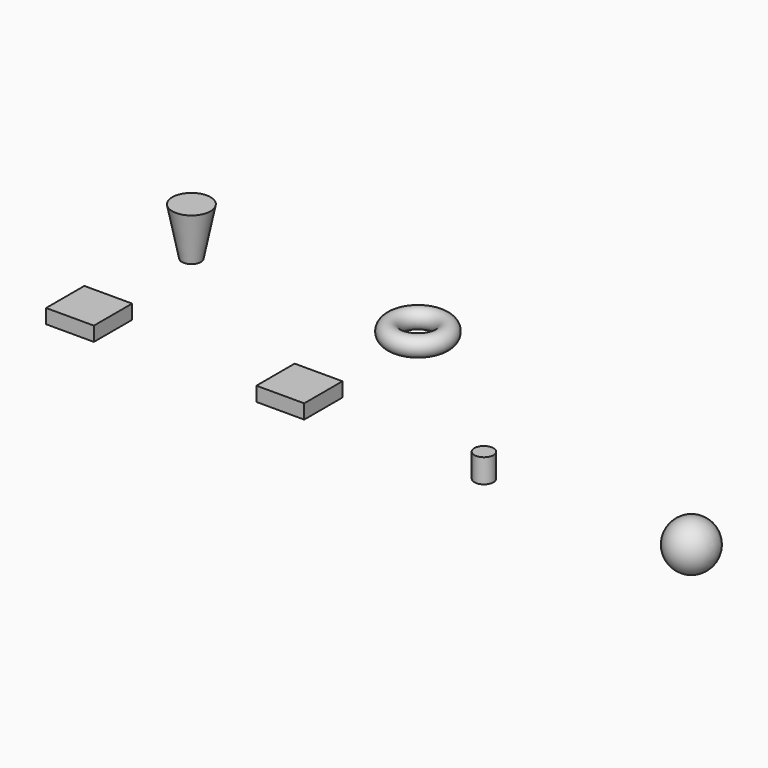
from build123d import *

# Parameters (mm, degrees)
BOX_W          = 10
BOX_H          = 10
BOX_DEPTH      = 3
BOX001_W       = 10
BOX001_H       = 10
BOX001_DEPTH   = 3
CYLINDER_R     = 2
CYLINDER_DEPTH = 5
TORUS_R        = 2


with BuildPart() as cube:
    # Box → Box (new body)
    with BuildSketch(Plane.XY):
        with Locations((5, 5)):
            Rectangle(BOX_W, BOX_H)
    extrude(amount=BOX_DEPTH)


with BuildPart() as cube001:
    # Box001 → Box001 (new body)
    with BuildSketch(Plane(origin=(44, 0, 0), x_dir=(1, 0, 0), z_dir=(0, 0, 1))):
        with Locations((5, 5)):
            Rectangle(BOX001_W, BOX001_H)
    extrude(amount=BOX001_DEPTH)


with BuildPart() as cylinder:
    # Cylinder → Cylinder (new body)
    with BuildSketch(Plane(origin=(90, 2, 0), x_dir=(1, 0, 0), z_dir=(0, 0, 1))):
        Circle(CYLINDER_R)
    extrude(amount=CYLINDER_DEPTH)


with BuildPart() as sphere:
    # Sphere → Sphere (revolve)
    with BuildSketch(Plane(origin=(131, 4.997804, 0), x_dir=(1, 0, 0), z_dir=(0, -1, 0))):
        with BuildLine():
            ThreePointArc((0, -5), (5, 0), (0, 5))
            Line((0, 5), (0, -5))
        make_face()
    revolve(axis=Axis((131, 4.997804, 0), (0, 0, 1)))


with BuildPart() as cone:
    # Cone → Cone (revolve)
    with BuildSketch(Plane(origin=(4, 33, 0), x_dir=(1, 0, 0), z_dir=(0, -1, 0))):
        Polygon((0, 0), (2, 0), (4, 10), (0, 10), align=None)
    revolve(axis=Axis((4, 33, 0), (0, 0, 1)))


with BuildPart() as torus:
    # Torus → Torus (revolve)
    with BuildSketch(Plane(origin=(49, 36, 0), x_dir=(1, 0, 0), z_dir=(0, -1, 0))):
        with Locations((5, 0)):
            Circle(TORUS_R)
    revolve(axis=Axis((49, 36, 0), (0, 0, 1)))


solid = Compound([cube.part, cube001.part, cylinder.part, sphere.part, cone.part, torus.part])
